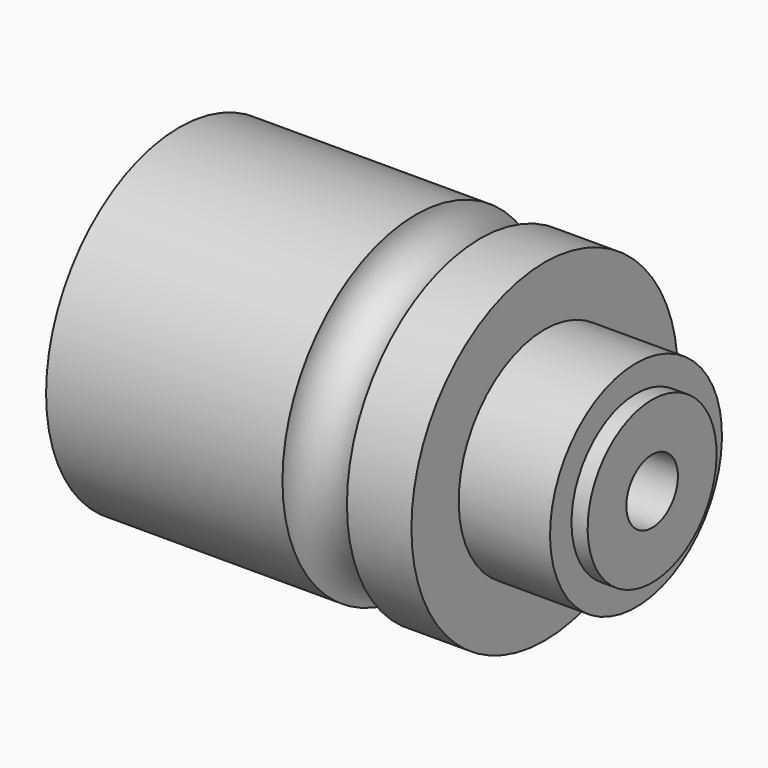
from build123d import *


with BuildPart() as f1:
    # F0 (on Front) → F1 (revolve)
    with BuildSketch(Plane.XZ):
        with BuildLine():
            Line((0, 31), (0, 0))
            Line((0, 0), (88, 0))
            Line((88, 0), (88, 15))
            Line((88, 15), (85, 15))
            Line((85, 15), (85, 20))
            Line((85, 20), (68, 20))
            Line((68, 20), (68, 31))
            Line((68, 31), (56, 31))
            ThreePointArc((56, 31), (50, 25), (44, 31))
            Line((44, 31), (0, 31))
        make_face()
    revolve(axis=Axis((54.523584, 0, 0), (1, 0, 0)))

    # F2 (on Front) → F3 (revolve, cut)
    with BuildSketch(Plane.XZ):
        Polygon((0, 25), (0, 0), (135.937035, 0), (135.937035, 6), (30, 6), (30, 16), (22, 16), (22, 20.5), (16.5, 20.5), (16.5, 12.5), (13.5, 12.5), (13.5, 16), (1.5, 16), (1.5, 25), align=None)
    revolve(axis=Axis((-19.679806, 0, 0), (-1, 0, 0)), mode=Mode.SUBTRACT)


solid = f1.part
